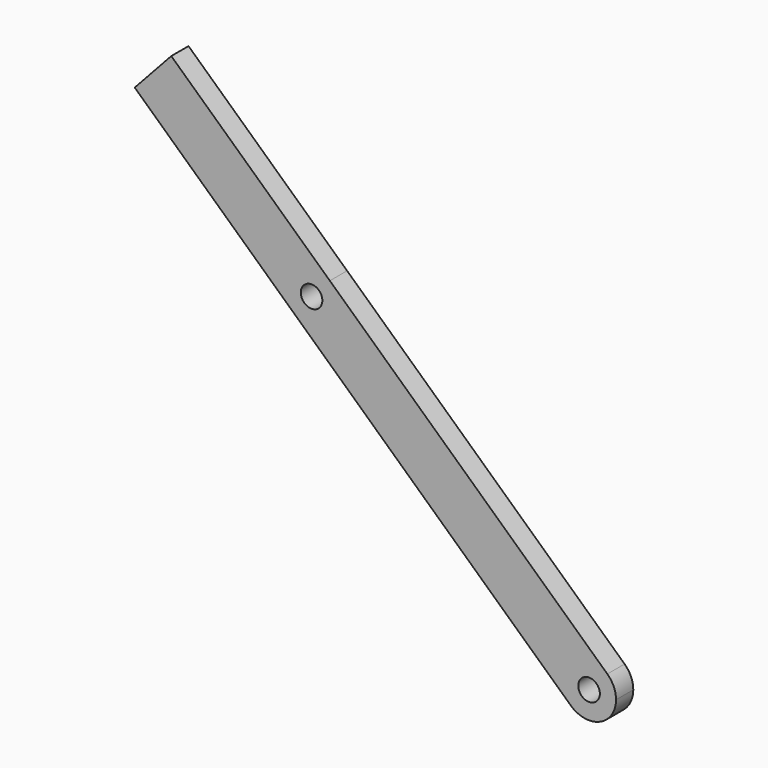
from build123d import *

# Parameters (mm, degrees)
F0_R     = 2.54
F1_DEPTH = 5.08
F3_DEPTH = 5.08


with BuildPart() as f1:
    # F0 (on Front) → F1 (new body)
    with BuildSketch(Plane.XZ):
        with BuildLine():
            ThreePointArc((-30.166206, -46.664449), (-23.31305, -47.812995), (-19.511088, -41.996638))
            ThreePointArc((-19.511088, -41.996638), (-20.044732, -39.4486), (-21.55597, -37.328828))
            ThreePointArc((-21.55597, -37.328828), (-30.528899, -37.69152), (-30.166206, -46.664449))
        make_face()
        with Locations((-25.861088, -41.996638)):
            Circle(F0_R, mode=Mode.SUBTRACT)
        with BuildLine():
            ThreePointArc((-30.166206, -46.664449), (-30.528899, -37.69152), (-21.55597, -37.328828))
            Line((-21.55597, -37.328828), (-86.90532, 22.942827))
            ThreePointArc((-86.90532, 22.942827), (-85.394082, 20.823055), (-84.860439, 18.275017))
            ThreePointArc((-84.860439, 18.275017), (-88.6624, 12.45866), (-95.515557, 13.607206))
            Line((-95.515557, 13.607206), (-30.166206, -46.664449))
        make_face()
        with BuildLine():
            ThreePointArc((-84.860439, 18.275017), (-85.394082, 20.823055), (-86.90532, 22.942827))
            ThreePointArc((-86.90532, 22.942827), (-95.878249, 22.580135), (-95.515557, 13.607206))
            ThreePointArc((-95.515557, 13.607206), (-88.6624, 12.45866), (-84.860439, 18.275017))
        make_face()
        with Locations((-91.210439, 18.275017)):
            Circle(F0_R, mode=Mode.SUBTRACT)
    extrude(amount=F1_DEPTH)

    # F2 (on face) → F3 (join)
    with BuildSketch(Plane.XZ.offset(5.08)):
        with BuildLine():
            ThreePointArc((-95.515557, 13.607206), (-95.878249, 22.580135), (-86.90532, 22.942827))
            Line((-86.90532, 22.942827), (-124.247806, 57.383773))
            Line((-124.247806, 57.383773), (-132.858043, 48.048152))
            Line((-132.858043, 48.048152), (-95.515557, 13.607206))
        make_face()
    extrude(amount=-F3_DEPTH)


solid = f1.part
